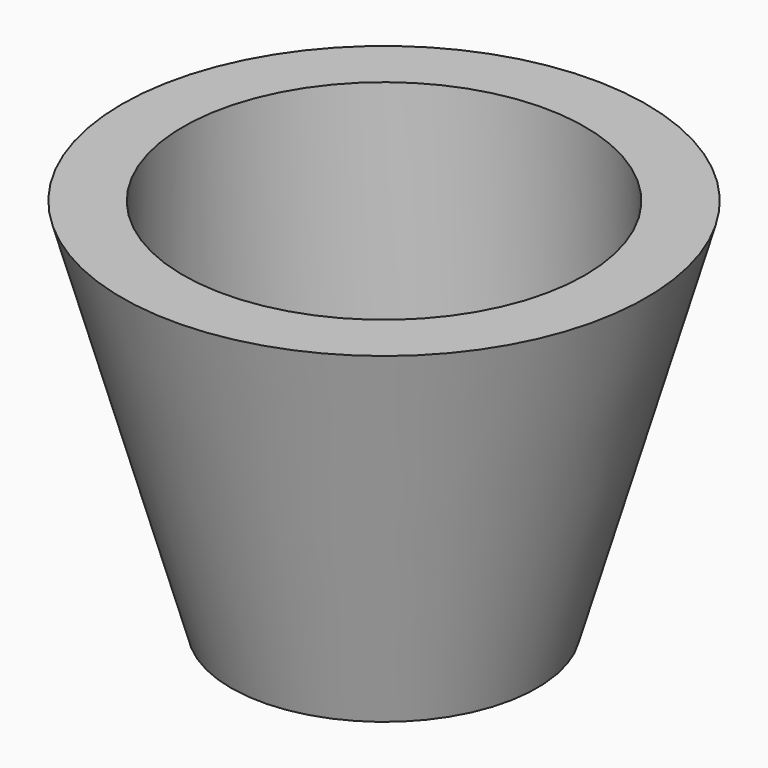
from build123d import *

# Parameters (mm, degrees)
F2_R     = 24.421659
F3_DEPTH = 25.4
F4_R     = 12.060942
F5_DEPTH = 18.542


with BuildPart() as f1:
    # F0 (on Front) → F1 (revolve)
    with BuildSketch(Plane.XZ):
        Polygon((0, -26.049769), (0, 20.002501), (-31.864449, 20.002501), (-18.606978, -26.049769), align=None)
    revolve(axis=Axis((0, 0, -3.023634), (0, 0, -1)))

    # F2 (on face) → F3 (cut)
    with BuildSketch(Plane.XY.offset(20.002501)):
        Circle(F2_R)
    extrude(amount=-F3_DEPTH, mode=Mode.SUBTRACT)

    # F4 (on face) → F5 (cut)
    with BuildSketch(Plane.XY.offset(-5.397499)):
        Circle(F4_R)
    extrude(amount=-F5_DEPTH, mode=Mode.SUBTRACT)


solid = f1.part
